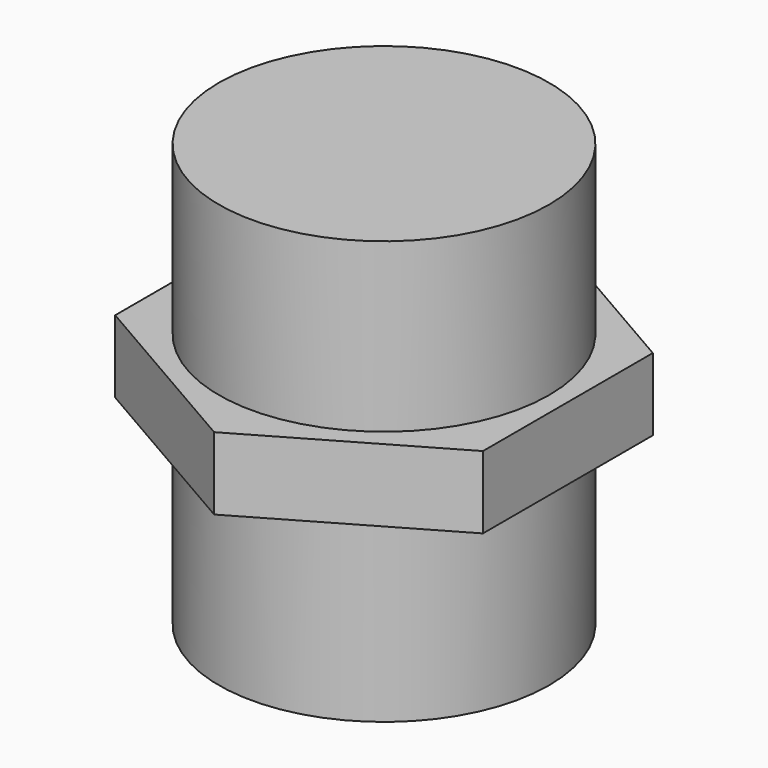
from build123d import *

# Parameters (mm, degrees)
EXTRUDE_DEPTH  = 4.83
CYLINDER_R     = 11
CYLINDER_DEPTH = 28.19


with BuildPart() as extrude_body:
    # Sketch → Extrude (new body)
    with BuildSketch(Plane.XY):
        Polygon((12.25, -7.072541), (12.25, 7.072541), (0, 14.145082), (-12.25, 7.072541), (-12.25, -7.072541), (0, -14.145082), align=None)
    extrude(amount=EXTRUDE_DEPTH)


with BuildPart() as extrude_body_1:
    # Extrude placement: moved
    add(extrude_body.part.moved(Location((0, 0, 12.19))))


with BuildPart() as powerplug:
    # Cylinder → Cylinder (new body)
    with BuildSketch(Plane.XY):
        Circle(CYLINDER_R)
    extrude(amount=CYLINDER_DEPTH)

    # Fusion: union Extrude body
    add(extrude_body_1.part)


with BuildPart() as powerplug_1:
    # Fusion placement: moved
    add(powerplug.part.moved(Location((-40, 25, -147))))


solid = powerplug_1.part
